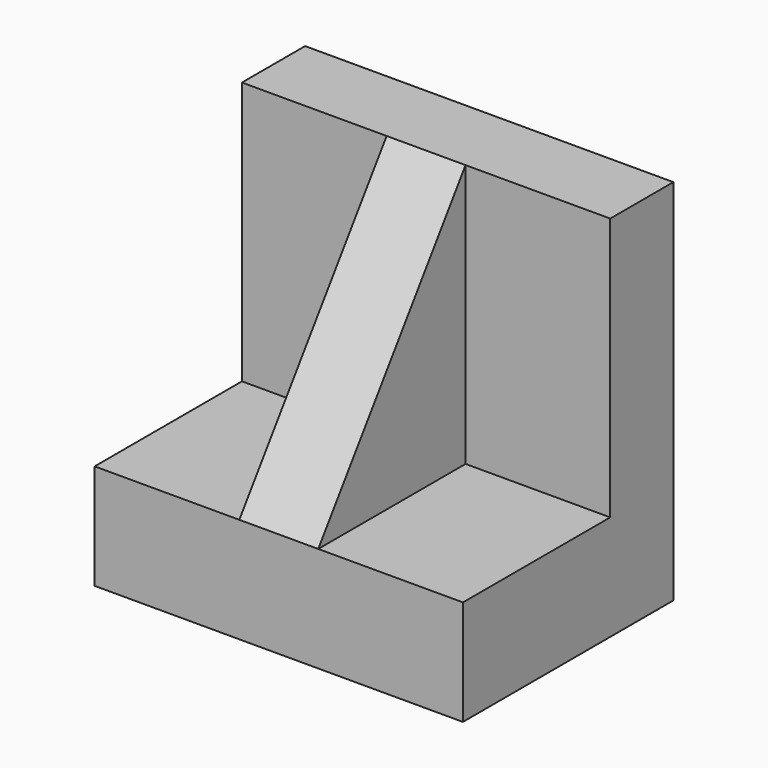
from build123d import *

# Parameters (mm, degrees)
F0_W     = 70
F0_H     = 35
F1_DEPTH = 20
F0_H_2   = 15
F2_DEPTH = 70
F4_DEPTH = 7.5


with BuildPart() as f1:
    # F0 (on Top) → F1 (new body)
    with BuildSketch(Plane.XY):
        with Locations((0, -42.5)):
            Rectangle(F0_W, F0_H)
    extrude(amount=F1_DEPTH)

    # F0 (on Top) → F2 (join)
    with BuildSketch(Plane.XY):
        with Locations((0, -17.5)):
            Rectangle(F0_W, F0_H_2)
    extrude(amount=F2_DEPTH)

    # F3 (on Right) → F4 (join, symmetric)
    with BuildSketch(Plane.YZ):
        Polygon((-25, 20), (-25, 70), (-60, 20), align=None)
    extrude(amount=F4_DEPTH, both=True)


solid = f1.part
